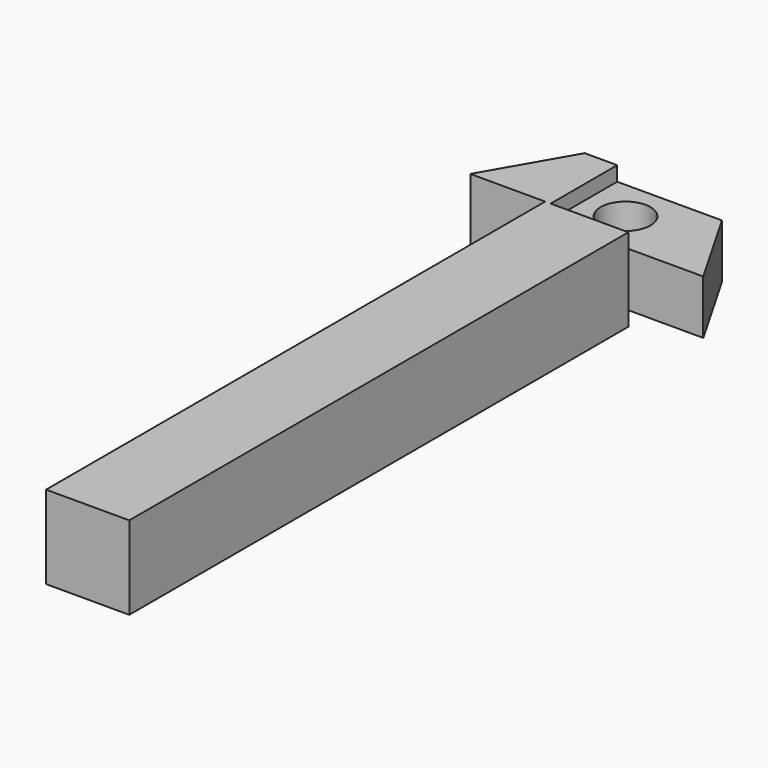
from build123d import *

# Parameters (mm, degrees)
PAD_DEPTH       = 20
POCKET_DEPTH    = 3.5
POCKET001_DEPTH = 3.5
SKETCH004_R     = 6
POCKET002_DEPTH = 16.501


with BuildPart() as part:
    # Sketch001 → Pad (new body)
    with BuildSketch(Plane.XY):
        Polygon((-16.5, 20), (16.5, 20), (28, 0), (10, 0), (10, -150), (-10, -150), (-10, 0), (-28, 0), align=None)
    extrude(amount=PAD_DEPTH)

    # Sketch002 (on Face10 of Pad) → Pocket (cut)
    with BuildSketch(Plane.XY.offset(20)):
        Polygon((28, 0), (-8.68, 0), (-8.68, 20), (16.5, 20), align=None)
    extrude(amount=-POCKET_DEPTH, mode=Mode.SUBTRACT)

    # Sketch003 (on Face2 of Pocket) → Pocket001 (cut)
    with BuildSketch(Plane(origin=(0, 0, 0), x_dir=(1, 0, 0), z_dir=(0, 0, -1))):
        Polygon((28, 0), (-8.68, 0), (-8.68, -20), (16.5, -20), align=None)
    extrude(amount=-POCKET001_DEPTH, mode=Mode.SUBTRACT)

    # Sketch004 (on Face6 of Pocket001) → Pocket002 (cut, through all)
    with BuildSketch(Plane.XY.offset(16.5)):
        with Locations((1.32, 10)):
            Circle(SKETCH004_R)
    extrude(amount=-POCKET002_DEPTH, mode=Mode.SUBTRACT)


solid = part.part
